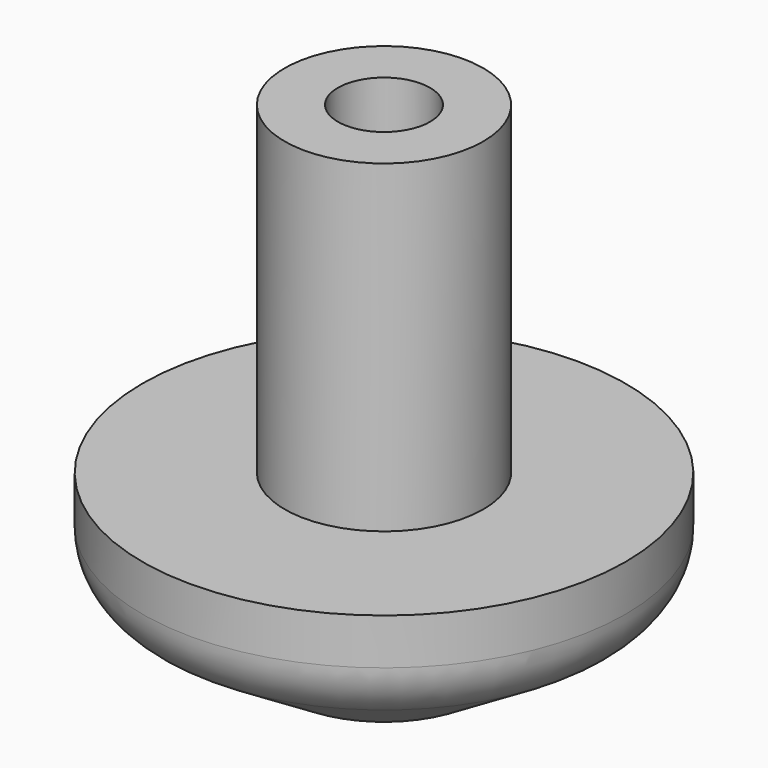
from build123d import *

# Parameters (mm, degrees)
F2_R     = 4.7625
F3_DEPTH = 9.525
F4_R     = 1.5875
F5_DEPTH = 16.66875


with BuildPart() as f1:
    # F0 (on Front) → F1 (revolve)
    with BuildSketch(Plane.XZ):
        with BuildLine():
            Line((0, 50.8), (0, 0))
            Line((0, 0), (10.261248, 0))
            Line((10.261248, 0), (21.929258, 7.154912))
            ThreePointArc((21.929258, 7.154912), (24.1506, 9.46627), (24.959791, 12.568196))
            Line((24.959791, 12.568196), (24.959791, 17.333189))
            Line((24.959791, 17.333189), (10.261248, 17.333189))
            Line((10.261248, 17.333189), (10.261248, 50.8))
            Line((10.261248, 50.8), (0, 50.8))
        make_face()
    revolve(axis=Axis((0, 0, 25.4), (0, 0, 1)))

    # F2 (on face) → F3 (cut)
    with BuildSketch(Plane.XY.offset(50.8)):
        Circle(F2_R)
    extrude(amount=-F3_DEPTH, mode=Mode.SUBTRACT)

    # F4 (on face) → F5 (cut)
    with BuildSketch(Plane(origin=(0, 0, 0), x_dir=(1, 0, 0), z_dir=(0, 0, -1))):
        Circle(F4_R)
    extrude(amount=-F5_DEPTH, mode=Mode.SUBTRACT)


solid = f1.part
